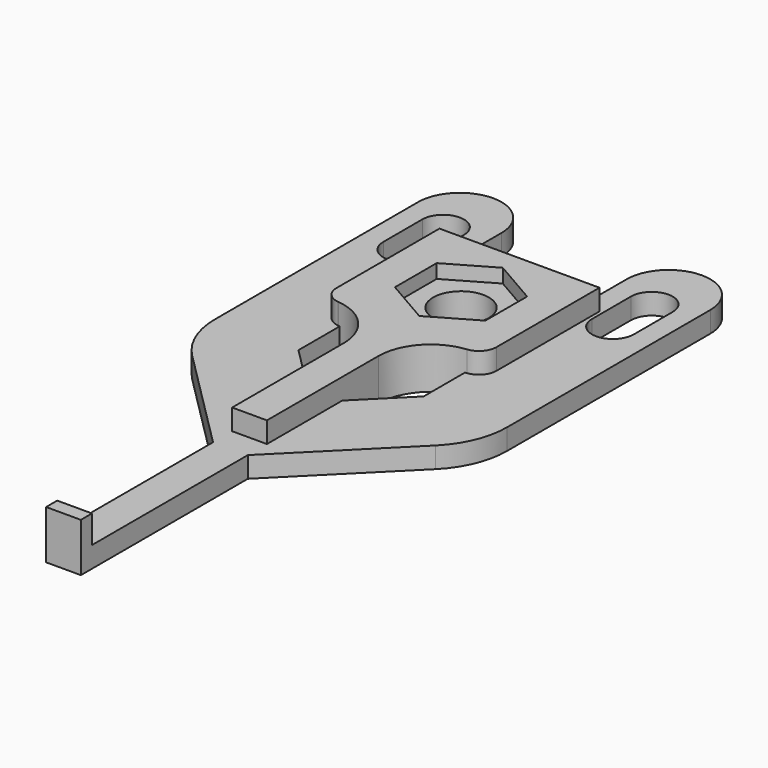
from build123d import *

# Parameters (mm, degrees)
PAD_DEPTH    = 3
SKETCH001_W  = 2.5
SKETCH001_H  = 2
PAD001_DEPTH = 4
PAD002_DEPTH = 6
POCKET_DEPTH = 2


with BuildPart() as body:
    # Sketch → Pad (new body)
    with BuildSketch(Plane.XY):
        with BuildLine():
            ThreePointArc((-9, 36.5), (-15, 42.5), (-21, 36.5))
            Line((-21, 36.5), (-21, 0))
            ThreePointArc((-21, 0), (-20.086557, -4.592195), (-17.485291, -8.485272))
            Line((-2.5, -23.470563), (-17.485291, -8.485272))
            Line((-2.5, -23.470563), (-2.5, -53.470563))
            Line((-2.5, -53.470563), (0, -53.470563))
            Line((0, -53.470563), (0, -9))
            Line((-9, 0), (0, -9))
            Line((-9, 36.5), (-9, 0))
        make_face()
        with BuildLine():
            ThreePointArc((-12, 33.5), (-15, 36.5), (-18, 33.5))
            Line((-18, 33.5), (-18, 26.5))
            ThreePointArc((-18, 26.5), (-15, 23.5), (-12, 26.5))
            Line((-12, 33.5), (-12, 26.5))
        make_face(mode=Mode.SUBTRACT)
    pad = extrude(amount=PAD_DEPTH)

    # Sketch001 (on Face15 of Pad) → Pad001 (join)
    with BuildSketch(Plane.XY.offset(3)):
        with Locations((-1.25, -52.470563)):
            Rectangle(SKETCH001_W, SKETCH001_H)
    pad001 = extrude(amount=PAD001_DEPTH)

    # Mirrored: Pad001, Pad across Sketch001 V_Axis
    add(pad001.mirror(Plane(origin=(0, 0, 3), x_dir=(0, 0, 1), z_dir=(1, 0, 0))))
    add(pad.mirror(Plane(origin=(0, 0, 3), x_dir=(0, 0, 1), z_dir=(1, 0, 0))))


with BuildPart() as body001:
    # Sketch003 → Pad002 (new body)
    with BuildSketch(Plane.XY):
        with BuildLine():
            Line((-2.5, 0), (-2.5, -20.036778))
            Line((-2.5, -20.036778), (0, -20.036778))
            Line((0, -20.036778), (0, 13.963222))
            ThreePointArc((0, 21.963222), (-4, 17.963222), (0, 13.963222))
            Line((0, 21.963222), (0, 28.463222))
            Line((-11.5, 28.463222), (0, 28.463222))
            Line((-11.5, 9.94992), (-11.5, 28.463222))
            ThreePointArc((-11.5, 9.94992), (-10.856592, 8.275685), (-9.257548, 7.463222))
            Line((-9.227356, 7.460095), (-9.257548, 7.463222))
            ThreePointArc((-2.5, 0), (-4.430223, 5.022707), (-9.227356, 7.460095))
        make_face()
    pad002 = extrude(amount=PAD002_DEPTH)

    # Sketch004 (on Face12 of Pad002) → Pocket (cut)
    with BuildSketch(Plane.XY.offset(6)):
        Polygon((0, 25.468776), (-6.5, 21.715999), (-6.5, 14.210445), (0, 10.457669), (6.5, 14.210445), (6.5, 21.715999), align=None)
    pocket = extrude(amount=-POCKET_DEPTH, mode=Mode.SUBTRACT)

    # Mirrored001: Pad002, Pocket across Sketch003 V_Axis
    add(pad002.mirror(Plane(origin=(0, 0, 0), x_dir=(0, 0, 1), z_dir=(1, 0, 0))))
    add(pocket.mirror(Plane(origin=(0, 0, 0), x_dir=(0, 0, 1), z_dir=(1, 0, 0))), mode=Mode.SUBTRACT)


solid = Compound([body.part, body001.part])
